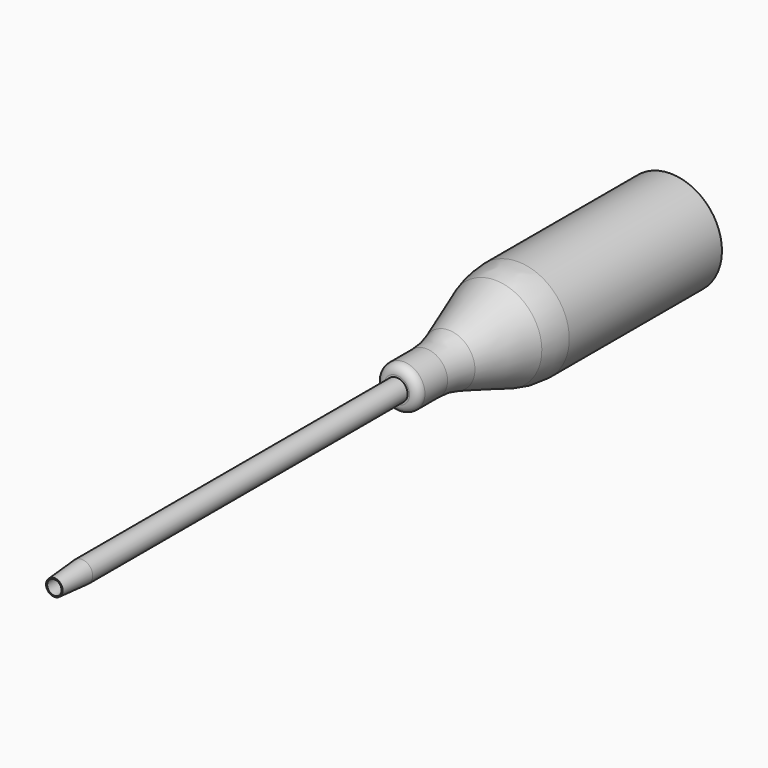
from build123d import *

# Parameters (mm, degrees)
F0_R          = 0.635
F0_R_2        = 0.419
F1_DEPTH      = 25
F1_DEPTH_BACK = 5
F4_R          = 0.5
F5_R          = 5
F6_SIZE2      = 2
F6_SIZE       = 0.15


with BuildPart() as f1:
    # F0 (on Front) → F1 (new body, two sides)
    with BuildSketch(Plane.XZ) as f1_sk:
        Circle(F0_R)
        Circle(F0_R_2, mode=Mode.SUBTRACT)
    extrude(amount=F1_DEPTH)
    extrude(f1_sk.sketch, amount=-F1_DEPTH_BACK)

    # F6
    f6_edges = [f1.edges().sort_by_distance(p)[0] for p in [
        (-0.635, -25, 0),
    ]]
    f6_side = f1.faces().sort_by_distance((-0.617039, -25, 0))[0]
    chamfer(f6_edges, length=F6_SIZE, length2=F6_SIZE2, reference=f6_side)


with BuildPart() as f3:
    # F2 (on Right) → F3 (revolve)
    with BuildSketch(Plane.YZ):
        Polygon((3, 1.25), (0, 1.25), (0, 0.635), (3.1045166231, 0.635), (8.1045166231, 2.385), (20, 2.385), (20, 3), (8, 3), align=None)
    revolve(axis=Axis((0, 7.991485962, 0), (0, 1, 0)))

    # F4
    f4_edges = [f3.edges().sort_by_distance(p)[0] for p in [
        (0, 0, -1.25),
    ]]
    fillet(f4_edges, radius=F4_R)

    # F5
    f5_edges = [f3.edges().sort_by_distance(p)[0] for p in [
        (0, 8, -3),
        (0, 3, -1.25),
    ]]
    fillet(f5_edges, radius=F5_R)


solid = Compound([f1.part, f3.part])
